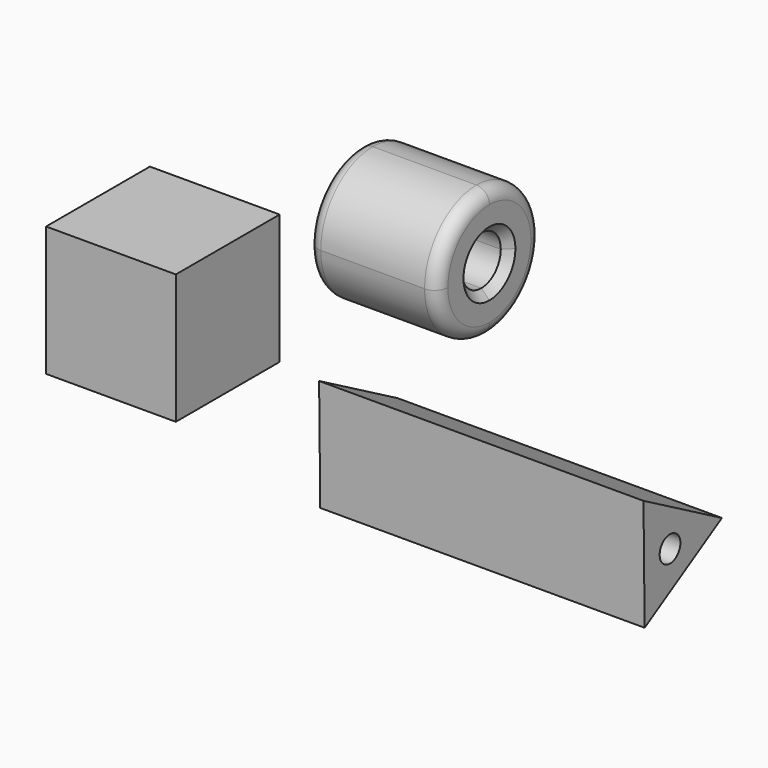
from build123d import *

# Parameters (mm, degrees)
F0_W     = 50.8
F0_H     = 50.8
F1_DEPTH = 50.8
F3_DEPTH = 50.8
F4_R     = 5.08
F5_SIZE  = 3.175
F6_SIZE  = 3.175
F7_R     = 5.08
F8_DEPTH = 127


with BuildPart() as f1:
    # F0 (on Front) → F1 (new body)
    with BuildSketch(Plane.XZ):
        with Locations((-25.4, 25.4)):
            Rectangle(F0_W, F0_H)
    extrude(amount=F1_DEPTH)


with BuildPart() as f3:
    # F2 (on Right) → F3 (new body)
    with BuildSketch(Plane.YZ):
        with BuildLine():
            Line((48.6851525075, 34.495400198), (64.5601525075, 34.495400198))
            ThreePointArc((64.5601525075, 34.495400198), (57.1206647496, 52.4559124401), (39.1601525075, 59.895400198))
            Line((39.1601525075, 59.895400198), (39.1601525075, 44.020400198))
            ThreePointArc((39.1601525075, 44.020400198), (45.8953445983, 41.2305922888), (48.6851525075, 34.495400198))
        make_face()
        with BuildLine():
            Line((39.1601525075, 44.020400198), (39.1601525075, 59.895400198))
            ThreePointArc((39.1601525075, 59.895400198), (21.1996402654, 52.4559124401), (13.7601525075, 34.495400198))
            Line((13.7601525075, 34.495400198), (29.6351525075, 34.495400198))
            ThreePointArc((29.6351525075, 34.495400198), (32.4249604167, 41.2305922888), (39.1601525075, 44.020400198))
        make_face()
        with BuildLine():
            ThreePointArc((13.7601525075, 34.495400198), (21.1996402654, 16.5348879559), (39.1601525075, 9.095400198))
            Line((39.1601525075, 9.095400198), (39.1601525075, 24.970400198))
            ThreePointArc((39.1601525075, 24.970400198), (32.4249604167, 27.7602081072), (29.6351525075, 34.495400198))
            Line((29.6351525075, 34.495400198), (13.7601525075, 34.495400198))
        make_face()
        with BuildLine():
            ThreePointArc((39.1601525075, 9.095400198), (57.1206647496, 16.5348879559), (64.5601525075, 34.495400198))
            Line((64.5601525075, 34.495400198), (48.6851525075, 34.495400198))
            ThreePointArc((48.6851525075, 34.495400198), (45.8953445983, 27.7602081072), (39.1601525075, 24.970400198))
            Line((39.1601525075, 24.970400198), (39.1601525075, 9.095400198))
        make_face()
    extrude(amount=F3_DEPTH)

    # F4
    f4_edges = [f3.edges().sort_by_distance(p)[0] for p in [
        (50.8, 39.160153, 59.8954),
        (0, 39.160153, 59.8954),
    ]]
    fillet(f4_edges, radius=F4_R)

    # F5
    f5_edges = [f3.edges().sort_by_distance(p)[0] for p in [
        (0, 29.635153, 34.4954),
    ]]
    chamfer(f5_edges, length=F5_SIZE)

    # F6
    f6_edges = [f3.edges().sort_by_distance(p)[0] for p in [
        (50.8, 29.635153, 34.4954),
    ]]
    chamfer(f6_edges, length=F6_SIZE)


with BuildPart() as f8:
    # F7 (on Right) → F8 (new body)
    with BuildSketch(Plane.YZ):
        Polygon((19.8693240316, -58.4157209222), (57.6838168302, -35.9314122963), (19.3045879744, -14.4252552145), align=None)
        with Locations((32.2859096121, -36.257462811)):
            Circle(F7_R, mode=Mode.SUBTRACT)
    extrude(amount=F8_DEPTH)


solid = Compound([f1.part, f3.part, f8.part])
